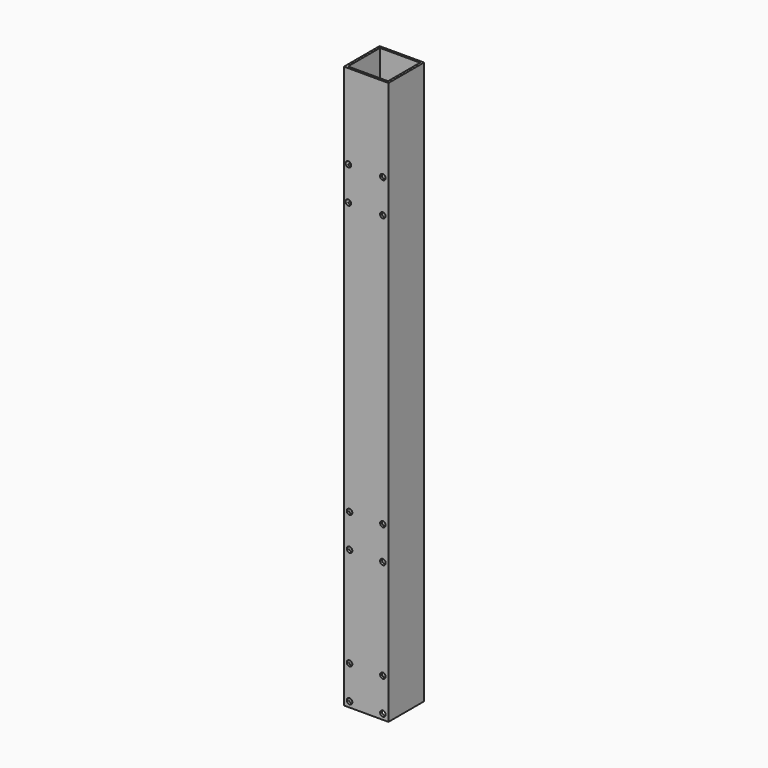
from build123d import *

# Parameters (mm, degrees)
F0_W     = 100
F0_H     = 100
F0_W_2   = 90
F0_H_2   = 90
F1_DEPTH = 1265
F3_D     = 12.5
F5_D     = 12.5


with BuildPart() as f1:
    # F0 (on Top) → F1 (new body)
    with BuildSketch(Plane.XY):
        Rectangle(F0_W, F0_H)
        Rectangle(F0_W_2, F0_H_2, mode=Mode.SUBTRACT)
    extrude(amount=F1_DEPTH)

    # F3 (through all)
    with Locations(Plane.XZ.offset(50)):
        with Locations((-37.5, 387.5), (37.5, 387.5), (37.5, 312.5), (-37.5, 312.5), (-37.5, 87.5), (-37.5, 12.5), (37.5, 87.5), (37.5, 12.5)):
            Hole(F3_D / 2)

    # F5 (through all)
    with Locations(Plane.XZ.offset(50)):
        with Locations((-40.149868, 999.03965), (37.251893, 999.03965), (-40.149868, 1074.598551), (37.251893, 1074.598551)):
            Hole(F5_D / 2)


solid = f1.part
